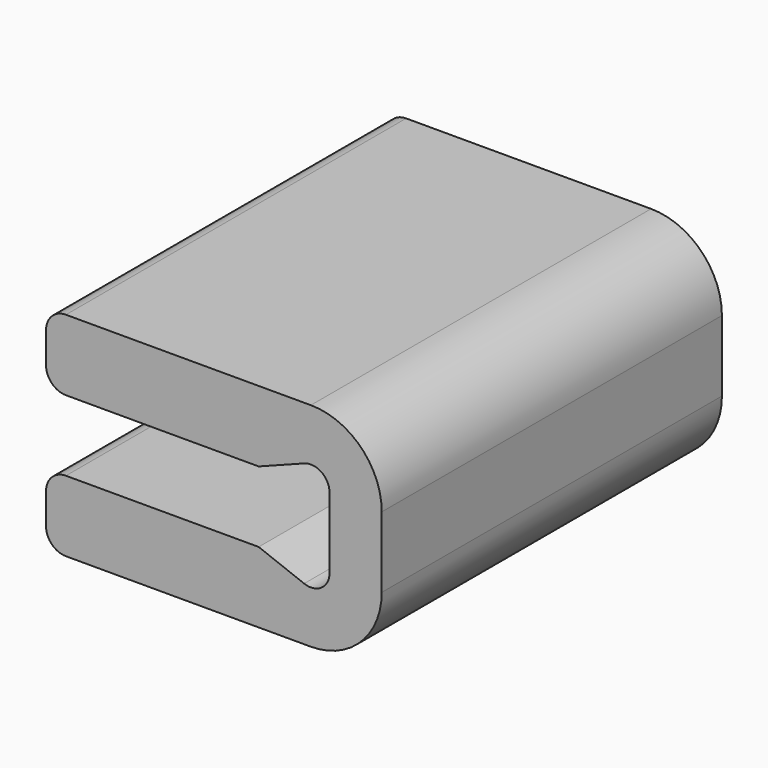
from build123d import *

# Parameters (mm, degrees)
F1_DEPTH = 19.05
F2_R     = 1.5875
F3_DEPTH = 1.651


with BuildPart() as f1:
    # F0 (on Front) → F1 (new body)
    with BuildSketch(Plane.XZ):
        with BuildLine():
            Line((0, 3.175), (0, 0))
            ThreePointArc((0, 0), (-0.36356, -0.690866), (-1.138859, -0.782422))
            Line((-1.138859, -0.782422), (-3.175, 0))
            Line((-3.175, 0), (-11.811, 0))
            ThreePointArc((-11.811, 0), (-12.439618, -0.260382), (-12.7, -0.889))
            Line((-12.7, -0.889), (-12.7, -2.286))
            ThreePointArc((-12.7, -2.286), (-12.439618, -2.914618), (-11.811, -3.175))
            Line((-11.811, -3.175), (-0.8382, -3.175))
            ThreePointArc((-0.8382, -3.175), (1.406864, -2.245064), (2.3368, 0))
            Line((2.3368, 0), (2.3368, 3.175))
            ThreePointArc((2.3368, 3.175), (1.406864, 5.420064), (-0.8382, 6.35))
            Line((-0.8382, 6.35), (-11.811, 6.35))
            ThreePointArc((-11.811, 6.35), (-12.439618, 6.089618), (-12.7, 5.461))
            Line((-12.7, 5.461), (-12.7, 4.064))
            ThreePointArc((-12.7, 4.064), (-12.439618, 3.435382), (-11.811, 3.175))
            Line((-11.811, 3.175), (-3.175, 3.175))
            Line((-3.175, 3.175), (-1.138859, 3.957422))
            ThreePointArc((-1.138859, 3.957422), (-0.36356, 3.865866), (0, 3.175))
        make_face()
    extrude(amount=F1_DEPTH)

    # F2 (on face) → F3 (cut)
    with BuildSketch(Plane(origin=(0, 0, -3.175), x_dir=(1, 0, 0), z_dir=(0, 0, -1))):
        with Locations((-6.35, 15.875)):
            Circle(F2_R)
        with Locations((-6.35, 3.175)):
            Circle(F2_R)
        with Locations((-6.35, 9.525)):
            Circle(F2_R)
    extrude(amount=-F3_DEPTH, mode=Mode.SUBTRACT)


solid = f1.part
